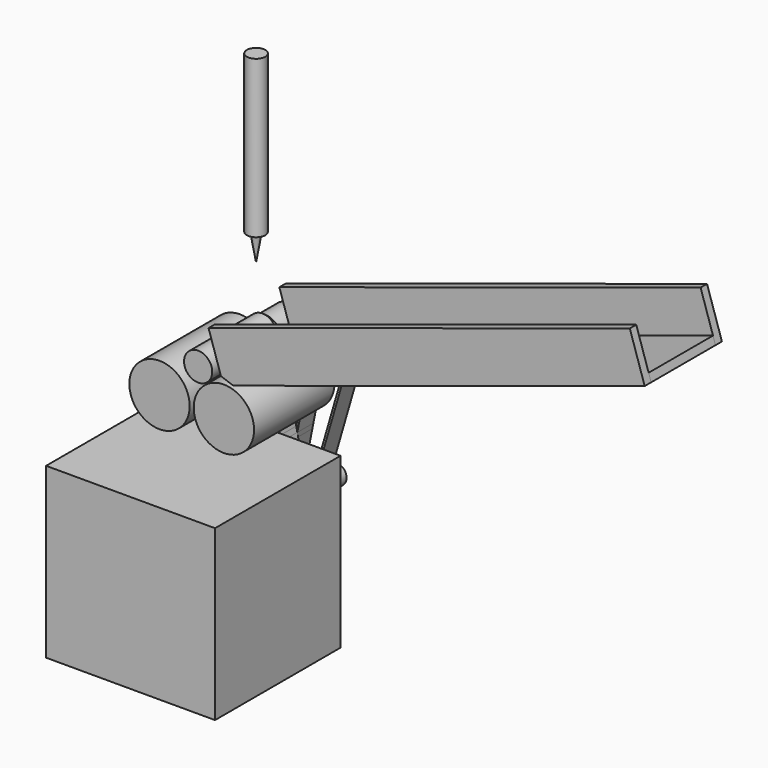
from build123d import *

# Parameters (mm, degrees)
F0_R           = 7.5
F1_DEPTH       = 20
F1_DEPTH_BACK  = 5
F0_W           = 42
F0_H           = 42
F0_R_2         = 2.5
F2_DEPTH       = 39
F0_R_3         = 3.5
F3_DEPTH       = 18
F3_DEPTH_BACK  = 2
F4_DEPTH       = 39
F5_DEPTH       = 25
F6_R           = 4
F7_DEPTH       = 15
F10_DEPTH      = 5
F11_DEPTH      = 5
F16_DEPTH      = 18
F16_DEPTH_BACK = 2
F17_W          = 110.0953395209
F17_H          = 2
F18_DEPTH      = 10
F18_DEPTH_BACK = 2
F19_DEPTH      = 25
F20_DEPTH      = 25


with BuildPart() as f1:
    # F0 (on Front) → F1 (new body, two sides)
    with BuildSketch(Plane.XZ) as f1_sk:
        with Locations((-8, -8)):
            Circle(F0_R)
    extrude(amount=F1_DEPTH)
    extrude(f1_sk.sketch, amount=-F1_DEPTH_BACK)

    # F6 (on face) → F7, piece 2 (join)
    with BuildSketch(Plane(origin=(0, 5, 0), x_dir=(-1, 0, 0), z_dir=(0, 1, 0))):
        with Locations((8, -8)):
            Circle(F6_R)
    extrude(amount=F7_DEPTH)


with BuildPart() as f1b:
    # F0 (on Front) → F1, piece 2 (new body, two sides)
    with BuildSketch(Plane.XZ) as f1_2_sk:
        with Locations((8, -8)):
            Circle(F0_R)
    extrude(amount=F1_DEPTH)
    extrude(f1_2_sk.sketch, amount=-F1_DEPTH_BACK)

    # F6 (on face) → F7 (join)
    with BuildSketch(Plane(origin=(0, 5, 0), x_dir=(-1, 0, 0), z_dir=(0, 1, 0))):
        with Locations((-8, -8)):
            Circle(F6_R)
    extrude(amount=F7_DEPTH)



with BuildPart() as f2:
    # F0 (on Front) → F2 (new body)
    with BuildSketch(Plane.XZ):
        with Locations((0, -41)):
            Rectangle(F0_W, F0_H)
        with Locations((0, -41)):
            Circle(F0_R_2, mode=Mode.SUBTRACT)
    extrude(amount=F2_DEPTH)

    # F0 (on Front) → F4 (join)
    with BuildSketch(Plane.XZ):
        with Locations((0, -41)):
            Circle(F0_R_2)
    extrude(amount=F4_DEPTH)

    # F0 (on Front) → F5 (join)
    with BuildSketch(Plane.XZ):
        with Locations((0, -41)):
            Circle(F0_R_2)
    extrude(amount=-F5_DEPTH)


with BuildPart() as f3:
    # F0 (on Front) → F3 (new body, two sides)
    with BuildSketch(Plane.XZ) as f3_sk:
        Circle(F0_R_3)
    extrude(amount=F3_DEPTH)
    extrude(f3_sk.sketch, amount=-F3_DEPTH_BACK)


with BuildPart() as f10:
    # F9 (on offset) → F10 (new body)
    with BuildSketch(Plane(origin=(0, 12.5, 0), x_dir=(-1, 0, 0), z_dir=(0, 1, 0))):
        with BuildLine():
            Line((0, -25.4106080933), (-3.5841093846, -7.1340265175))
            ThreePointArc((-3.5841093846, -7.1340265175), (-9.0602001153, -3.6266745244), (-12.3222219251, -9.2523568303))
            Line((-12.3222219251, -9.2523568303), (-2.8814812834, -41.8349045535))
            ThreePointArc((-2.8814812834, -41.8349045535), (-2.997071424, -41.1325250144), (-2.943927077, -40.422684345))
            Line((-2.943927077, -40.422684345), (-2.8737671883, -40.0649154294))
            Line((-2.8737671883, -40.0649154294), (-11.8419750445, -9.1132060714))
            ThreePointArc((-11.8419750445, -9.1132060714), (-8.9424001025, -4.1125995772), (-4.0747638974, -7.2302457933))
            Line((-4.0747638974, -7.2302457933), (-0.2547617452, -26.7097240855))
            Line((-0.2547617452, -26.7097240855), (0, -25.4106080933))
        make_face()
        Polygon((0.2547617452, -26.7097240855), (0, -25.4106080933), (-0.2547617452, -26.7097240855), (0, -28.0088400777), align=None)
        with BuildLine():
            Line((2.8737671883, -40.0649154294), (0.2547617452, -26.7097240855))
            Line((0.2547617452, -26.7097240855), (0, -28.0088400777))
            Line((0, -28.0088400777), (2.4532725641, -40.5189036208))
            ThreePointArc((2.4532725641, -40.5189036208), (2.4975595193, -41.110437527), (2.4012343945, -41.6957538234))
            Line((2.4012343945, -41.6957538234), (2.8627452595, -40.1029550851))
            Line((2.8627452595, -40.1029550851), (2.8737671883, -40.0649154294))
        make_face()
        with BuildLine():
            ThreePointArc((-2.943927077, -40.422684345), (-2.997071424, -41.1325250144), (-2.8814812834, -41.8349045535))
            ThreePointArc((-2.8814812834, -41.8349045535), (0, -44), (2.8814812834, -41.8349045535))
            ThreePointArc((2.8814812834, -41.8349045535), (2.997071424, -41.1325250144), (2.943927077, -40.422684345))
            ThreePointArc((2.943927077, -40.422684345), (2.9077341016, -40.2617030445), (2.8627452595, -40.1029550851))
            Line((2.8627452595, -40.1029550851), (2.4012343945, -41.6957538234))
            ThreePointArc((2.4012343945, -41.6957538234), (-1.5e-08, -43.5), (-2.4012344028, -41.6957537946))
            Line((-2.4012344028, -41.6957537946), (-2.8627452595, -40.1029550851))
            ThreePointArc((-2.8627452595, -40.1029550851), (-2.9077341016, -40.2617030445), (-2.943927077, -40.422684345))
        make_face()
    extrude(amount=F10_DEPTH)


with BuildPart() as f11:
    # F9 (on offset) → F11 (new body)
    with BuildSketch(Plane(origin=(0, 12.5, 0), x_dir=(-1, 0, 0), z_dir=(0, 1, 0))):
        with BuildLine():
            Line((3.5841093846, -7.1340265175), (0, -25.4106080933))
            Line((0, -25.4106080933), (0.2547617452, -26.7097240855))
            Line((0.2547617452, -26.7097240855), (4.0747638974, -7.2302457933))
            ThreePointArc((4.0747638974, -7.2302457933), (8.9424001025, -4.1125995772), (11.8419750445, -9.1132060714))
            Line((11.8419750445, -9.1132060714), (2.8737671883, -40.0649154294))
            Line((2.8737671883, -40.0649154294), (2.943927077, -40.422684345))
            ThreePointArc((2.943927077, -40.422684345), (2.997071424, -41.1325250144), (2.8814812834, -41.8349045535))
            Line((2.8814812834, -41.8349045535), (12.3222219251, -9.2523568303))
            ThreePointArc((12.3222219251, -9.2523568303), (9.0602001153, -3.6266745244), (3.5841093846, -7.1340265175))
        make_face()
        Polygon((0.2547617452, -26.7097240855), (0, -25.4106080933), (-0.2547617452, -26.7097240855), (0, -28.0088400777), align=None)
        with BuildLine():
            Line((0, -28.0088400777), (-0.2547617452, -26.7097240855))
            Line((-0.2547617452, -26.7097240855), (-2.8737671883, -40.0649154294))
            Line((-2.8737671883, -40.0649154294), (-2.8627452595, -40.1029550851))
            Line((-2.8627452595, -40.1029550851), (-2.4012344028, -41.6957537946))
            ThreePointArc((-2.4012344028, -41.6957537946), (-2.49755952, -41.110437512), (-2.4532725641, -40.5189036208))
            Line((-2.4532725641, -40.5189036208), (0, -28.0088400777))
        make_face()
        with BuildLine():
            ThreePointArc((-2.943927077, -40.422684345), (-2.997071424, -41.1325250144), (-2.8814812834, -41.8349045535))
            ThreePointArc((-2.8814812834, -41.8349045535), (0, -44), (2.8814812834, -41.8349045535))
            ThreePointArc((2.8814812834, -41.8349045535), (2.997071424, -41.1325250144), (2.943927077, -40.422684345))
            ThreePointArc((2.943927077, -40.422684345), (2.9077341016, -40.2617030445), (2.8627452595, -40.1029550851))
            Line((2.8627452595, -40.1029550851), (2.4012343945, -41.6957538234))
            ThreePointArc((2.4012343945, -41.6957538234), (-1.5e-08, -43.5), (-2.4012344028, -41.6957537946))
            Line((-2.4012344028, -41.6957537946), (-2.8627452595, -40.1029550851))
            ThreePointArc((-2.8627452595, -40.1029550851), (-2.9077341016, -40.2617030445), (-2.943927077, -40.422684345))
        make_face()
    extrude(amount=-F11_DEPTH)


with BuildPart() as f13:
    # F12 (on Front) → F13 (revolve)
    with BuildSketch(Plane.XZ):
        Polygon((2.2979662754, 61.23996526), (0, 61.23996526), (0, 22.1789684147), (1.1489831377, 22.1789684147), (2.2979662754, 22.1789684147), align=None)
    revolve(axis=Axis((0, 0, 39.4970257767), (0, 0, -1)))


with BuildPart() as f14:
    # F12 (on Front) → F14 (revolve)
    with BuildSketch(Plane.XZ):
        Polygon((1.1489831377, 22.1789684147), (0, 22.1789684147), (0, 15.4775185511), align=None)
    revolve(axis=Axis((0, 0, 39.4970257767), (0, 0, -1)))


with BuildPart() as f16:
    # F15 (on Front) → F16 (new body, two sides)
    with BuildSketch(Plane.XZ) as f16_sk:
        Polygon((7.2723712932, 1.1038679485), (10.3511117253, 0), (112.6124768567, 33.1732605853), (111.99534269, 35.0756657526), align=None)
    extrude(amount=F16_DEPTH)
    extrude(f16_sk.sketch, amount=-F16_DEPTH_BACK)


with BuildPart() as f1b_1:
    add(f1b.part)

    add(f16.part)  # F18 merges F16
    # F17 (on face) → F18 (join, two sides)
    with BuildSketch(Plane(origin=(0.3684329096, 0, -1.1357476363), x_dir=(0.9512025836, 0, 0.3085670833), z_dir=(-0.3085670833, 0, 0.9512025836))) as f18_sk:
        with Locations((62.3057854368, 3)):
            Rectangle(F17_W, F17_H)
        with Locations((62.3057854368, -19)):
            Rectangle(F17_W, F17_H)
    extrude(amount=F18_DEPTH)
    extrude(f18_sk.sketch, amount=-F18_DEPTH_BACK)

    # F19 (cut): a face of the model
    f19_faces = [f1b_1.faces().sort_by_distance(p)[0] for p in [
        (8.5256529061, -18, 0.1428645361),
    ]]
    extrude(f19_faces, amount=-F19_DEPTH, mode=Mode.SUBTRACT)

    # F20 (cut): a face of the model
    f20_faces = [f1b_1.faces().sort_by_distance(p)[0] for p in [
        (8.5256529061, 2, 0.1428645361),
    ]]
    extrude(f20_faces, amount=-F20_DEPTH, mode=Mode.SUBTRACT)


solid = Compound([f1.part, f2.part, f3.part, f10.part, f11.part, f13.part, f14.part, f1b_1.part])
